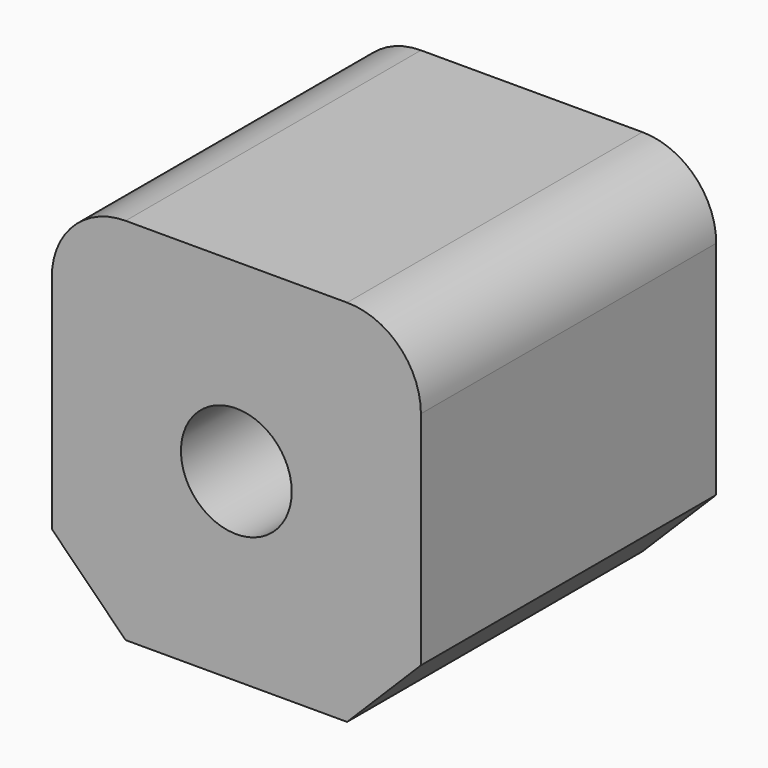
from build123d import *

# Parameters (mm, degrees)
F0_W     = 100
F0_H     = 100
F1_DEPTH = 100
F2_R     = 20
F3_SIZE  = 20
F4_R     = 15
F5_DEPTH = 100.001


with BuildPart() as f1:
    # F0 (on Front) → F1 (new body)
    with BuildSketch(Plane.XZ):
        Rectangle(F0_W, F0_H)
    extrude(amount=F1_DEPTH)

    # F2
    f2_edges = [f1.edges().sort_by_distance(p)[0] for p in [
        (-50, -50, 50),
        (50, -50, 50),
    ]]
    fillet(f2_edges, radius=F2_R)

    # F3
    f3_edges = [f1.edges().sort_by_distance(p)[0] for p in [
        (50, -50, -50),
        (-50, -50, -50),
    ]]
    chamfer(f3_edges, length=F3_SIZE)

    # F4 (on face) → F5 (cut, through all)
    with BuildSketch(Plane.XZ.offset(100)):
        Circle(F4_R)
    extrude(amount=-F5_DEPTH, mode=Mode.SUBTRACT)


solid = f1.part
